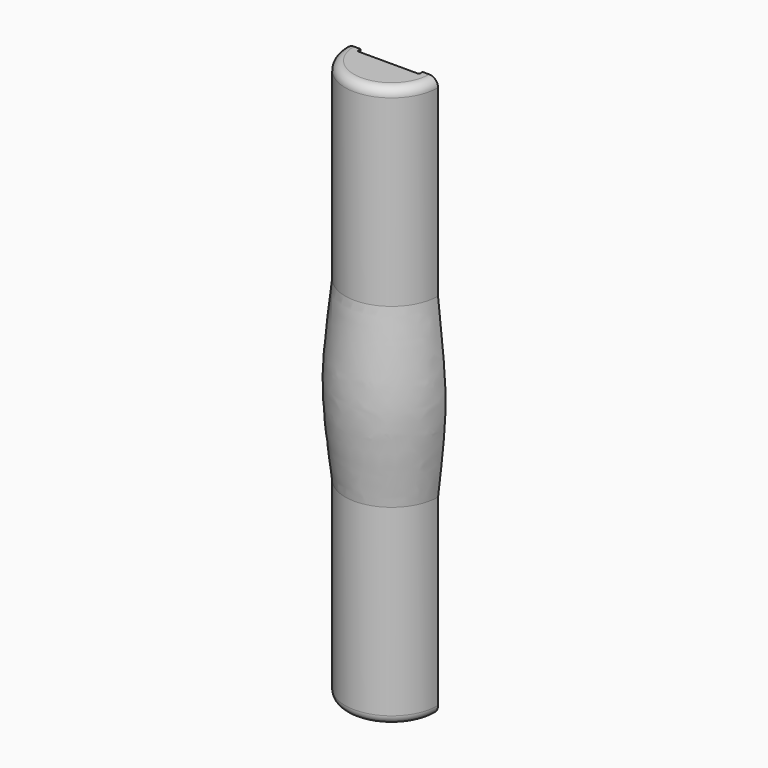
from build123d import *

# Parameters (mm, degrees)
F1_ANGLE = 180
F3_DEPTH = 127
F6_R     = 2
F7_R     = 2


with BuildPart() as f1:
    # F0 (on Front) → F1 (revolve)
    with BuildSketch(Plane.XZ):
        with BuildLine():
            Line((5.25, 63.5), (-5.25, 63.5))
            Line((-5.25, 63.5), (-5.25, 20))
            add(Edge.make_bspline(
                [(-5.25, 20), (-5.8853452496, 14.3080799964), (-7.0077819126, 4.2524138852), (-7.0249760105, -5.1144951824), (-5.8863231474, -14.6635947641), (-5.25, -20)],
                knots=[0, 0, 0, 0, 0.3652549784, 0.6452799944, 1, 1, 1, 1], degree=3))
            Line((-5.25, -20), (-5.25, -63.5))
            Line((-5.25, -63.5), (5.25, -63.5))
            Line((5.25, -63.5), (5.25, 63.5))
        make_face()
    revolve(axis=Axis((5.25, 0, 0), (0, 0, -1)), revolution_arc=F1_ANGLE)

    # F2 (on face) → F3 (cut)
    with BuildSketch(Plane.XY.offset(63.5)):
        with BuildLine():
            Line((-1.75, 0), (5.25, 0))
            Line((5.25, 0), (12.25, 0))
            Line((12.25, 0), (12.25, 0.7))
            ThreePointArc((12.25, 0.7), (12.1621320344, 0.9121320344), (11.95, 1))
            Line((11.95, 1), (-1.45, 1))
            ThreePointArc((-1.45, 1), (-1.6621320344, 0.9121320344), (-1.75, 0.7))
            Line((-1.75, 0.7), (-1.75, 0))
        make_face()
    extrude(amount=-F3_DEPTH, mode=Mode.SUBTRACT)


with BuildPart() as f4_1:
    # F4: instance of F1
    add(f1.part.mirror(Plane.XZ))

    # F6
    f6_edges = [f4_1.edges().sort_by_distance(p)[0] for p in [
        (5.25, -10.5, 63.5),
    ]]
    fillet(f6_edges, radius=F6_R)

    # F7
    f7_edges = [f4_1.edges().sort_by_distance(p)[0] for p in [
        (5.25, -10.5, -63.5),
    ]]
    fillet(f7_edges, radius=F7_R)


solid = f4_1.part
